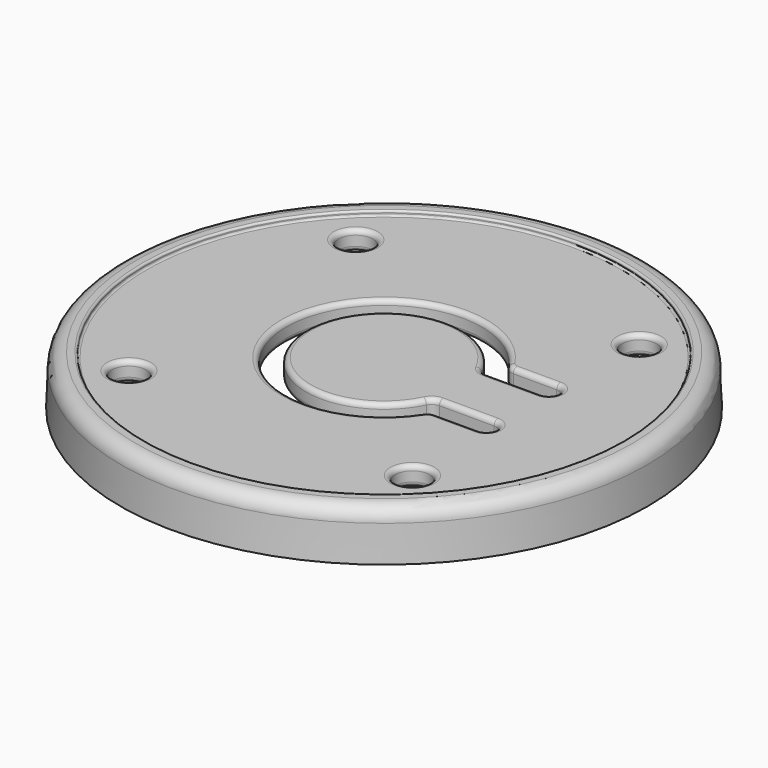
from build123d import *

# Parameters (mm, degrees)
F0_R      = 13.5
F0_R_2    = 12.5
F1_DEPTH  = 2.55
F1_TAPER  = 2
F2_DEPTH  = 1.3
F2_TAPER  = 1
F3_R      = 0.75
F4_R      = 12.25
F5_DEPTH  = 0.25
F6_R      = 0.1
F8_DEPTH  = 2.301
F9_R      = 0.25
F10_R     = 1.5
F11_DEPTH = 1
F11_TAPER = 20
F12_R     = 0.15
F13_R     = 0.875
F14_DEPTH = 2.301
F15_R     = 0.25
F16_R     = 0.48
F17_DEPTH = 1.3


with BuildPart() as f1:
    # F0 (on Top) → F1 (new body)
    with BuildSketch(Plane.XY):
        Circle(F0_R)
        Circle(F0_R_2, mode=Mode.SUBTRACT)
        Circle(F0_R_2)
    extrude(amount=F1_DEPTH, taper=F1_TAPER)

    # F0 (on Top) → F2 (cut)
    with BuildSketch(Plane.XY):
        Circle(F0_R_2)
    extrude(amount=F2_DEPTH, taper=F2_TAPER, mode=Mode.SUBTRACT)

    # F3
    f3_edges = [f1.edges().sort_by_distance(p)[0] for p in [
        (-13.410952, 0, 2.55),
    ]]
    fillet(f3_edges, radius=F3_R)

    # F4 (on face) → F5 (cut)
    with BuildSketch(Plane.XY.offset(2.55)):
        Circle(F4_R)
    extrude(amount=-F5_DEPTH, mode=Mode.SUBTRACT)

    # F6
    f6_edges = [f1.edges().sort_by_distance(p)[0] for p in [
        (-12.25, 0, 2.3),
        (-12.25, 0, 2.55),
    ]]
    fillet(f6_edges, radius=F6_R)

    # F7 (on face) → F8 (cut, through all)
    with BuildSketch(Plane.XY.offset(2.3)):
        with BuildLine():
            ThreePointArc((3.5832256659, -1.7777777778), (-4, 0), (3.5832256659, 1.7777777778))
            ThreePointArc((3.5832256659, 1.7777777778), (3.7676057358, 1.5750817072), (4.0311288741, 1.5))
            Line((4.0311288741, 1.5), (6.8301270189, 1.5))
            ThreePointArc((6.8301270189, 1.5), (7.1836804095, 1.6464466094), (7.3301270189, 2))
            ThreePointArc((7.3301270189, 2), (7.1836804095, 2.3535533906), (6.8301270189, 2.5))
            Line((6.8301270189, 2.5), (4.6097722286, 2.5))
            ThreePointArc((4.6097722286, 2.5), (4.3714065813, 2.5604754635), (4.190702026, 2.7272727273))
            ThreePointArc((4.190702026, 2.7272727273), (-5, 0), (4.190702026, -2.7272727273))
            ThreePointArc((4.190702026, -2.7272727273), (4.3714065813, -2.5604754635), (4.6097722286, -2.5))
            Line((4.6097722286, -2.5), (6.8301270189, -2.5))
            ThreePointArc((6.8301270189, -2.5), (7.1836804095, -2.3535533906), (7.3301270189, -2))
            ThreePointArc((7.3301270189, -2), (7.1836804095, -1.6464466094), (6.8301270189, -1.5))
            Line((6.8301270189, -1.5), (4.0311288741, -1.5))
            ThreePointArc((4.0311288741, -1.5), (3.7676057358, -1.5750817072), (3.5832256659, -1.7777777778))
        make_face()
    extrude(amount=-F8_DEPTH, mode=Mode.SUBTRACT)

    # F9
    f9_edges = [f1.edges().sort_by_distance(p)[0] for p in [
        (-5, 0, 2.3),
        (-5, 0, 1.3),
    ]]
    fillet(f9_edges, radius=F9_R)

    # F10 (on face) → F11 (join)
    with BuildSketch(Plane(origin=(0, 0, 1.3), x_dir=(1, 0, 0), z_dir=(0, 0, -1))):
        Circle(F10_R)
    extrude(amount=F11_DEPTH, taper=F11_TAPER)

    # F12
    f12_edges = [f1.edges().sort_by_distance(p)[0] for p in [
        (-1.13603, 0, 0.3),
        (-1.5, 0, 1.3),
    ]]
    fillet(f12_edges, radius=F12_R)

    # F13 (on face) → F14 (cut, through all)
    with BuildSketch(Plane.XY.offset(2.3)):
        with Locations((-7.25, 7.25)):
            Circle(F13_R)
        with Locations((-7.25, -7.25)):
            Circle(F13_R)
        with Locations((7.25, -7.25)):
            Circle(F13_R)
        with Locations((7.25, 7.25)):
            Circle(F13_R)
    extrude(amount=-F14_DEPTH, mode=Mode.SUBTRACT)

    # F15
    f15_edges = [f1.edges().sort_by_distance(p)[0] for p in [
        (-8.125, 7.25, 2.3),
        (6.375, 7.25, 2.3),
        (6.375, -7.25, 2.3),
        (-8.125, -7.25, 2.3),
        (-8.125, -7.25, 1.3),
        (-8.125, 7.25, 1.3),
        (6.375, 7.25, 1.3),
        (6.375, -7.25, 1.3),
    ]]
    fillet(f15_edges, radius=F15_R)

    # F16 (on face) → F17 (join)
    with BuildSketch(Plane(origin=(0, 0, 1.3), x_dir=(1, 0, 0), z_dir=(0, 0, -1))):
        with BuildLine():
            ThreePointArc((-10.9145811016, 6.0460850701), (-10.3949043654, 6.9013903332), (-9.8083504782, 7.7122944831))
            Line((-9.8083504782, 7.7122944831), (-10.3622839268, 8.0800622675))
            Line((-10.3622839268, 8.0800622675), (-11.4730785469, 6.4168829856))
            Line((-11.4730785469, 6.4168829856), (-10.9145811016, 6.0460850701))
        make_face()
        with BuildLine():
            ThreePointArc((-8.2199697868, 6.1213271543), (-8.3387446987, 6.5940240384), (-8.6668544751, 6.9544318608))
            ThreePointArc((-8.6668544751, 6.9544318608), (-10.0530744933, 6.674442466), (-9.7730850985, 5.2882224478))
            ThreePointArc((-9.7730850985, 5.2882224478), (-8.7472729028, 5.2401020663), (-8.2199697868, 6.1213271543))
        make_face()
        with Locations((-9.2199697868, 6.1213271543)):
            Circle(F16_R, mode=Mode.SUBTRACT)
        with BuildLine():
            Line((-8.6668544751, 6.9544318608), (-9.8083504782, 7.7122944831))
            ThreePointArc((-9.8083504782, 7.7122944831), (-10.3949043654, 6.9013903332), (-10.9145811016, 6.0460850701))
            Line((-10.9145811016, 6.0460850701), (-9.7730850985, 5.2882224478))
            ThreePointArc((-9.7730850985, 5.2882224478), (-10.0530744933, 6.674442466), (-8.6668544751, 6.9544318608))
        make_face()
        with BuildLine():
            ThreePointArc((6.9849920087, 8.9032505659), (7.1054646218, 9.1641625364), (7.1467589752, 9.4485627532))
            ThreePointArc((7.1467589752, 9.4485627532), (6.431159192, 10.4072683997), (5.3085259418, 9.9938749405))
            ThreePointArc((5.3085259418, 9.9938749405), (5.6014467879, 8.6103297197), (6.9849920087, 8.9032505659))
        make_face()
        with Locations((6.1467589752, 9.4485627532)):
            Circle(F16_R, mode=Mode.SUBTRACT)
        with BuildLine():
            ThreePointArc((5.3085259418, 9.9938749405), (6.431159192, 10.4072683997), (7.1467589752, 9.4485627532))
            ThreePointArc((7.1467589752, 9.4485627532), (7.1054646218, 9.1641625364), (6.9849920087, 8.9032505659))
            Line((6.9849920087, 8.9032505659), (7.620374017, 9.8799354825))
            ThreePointArc((7.620374017, 9.8799354825), (6.8040283437, 10.4588920826), (5.9439079501, 10.9705598571))
            Line((5.9439079501, 10.9705598571), (5.3085259418, 9.9938749405))
        make_face()
        with BuildLine():
            Line((6.2319190584, 11.4132795149), (5.9439079501, 10.9705598571))
            ThreePointArc((5.9439079501, 10.9705598571), (6.8040283437, 10.4588920826), (7.620374017, 9.8799354825))
            Line((7.620374017, 9.8799354825), (7.9083851253, 10.3226551403))
            Line((7.9083851253, 10.3226551403), (6.2319190584, 11.4132795149))
        make_face()
        with BuildLine():
            Line((5.316104536, -11.7450435793), (5.1744394927, -11.3537835647))
            ThreePointArc((5.1744394927, -11.3537835647), (4.2478396826, -11.7319684337), (3.2939107692, -12.0346739525))
            Line((3.2939107692, -12.0346739525), (3.4539265375, -12.4766162298))
            Line((3.4539265375, -12.4766162298), (5.316104536, -11.7450435793))
        make_face()
        with BuildLine():
            ThreePointArc((3.2939107692, -12.0346739525), (4.2478396826, -11.7319684337), (5.1744394927, -11.3537835647))
            Line((5.1744394927, -11.3537835647), (4.6742672482, -9.9723743257))
            ThreePointArc((4.6742672482, -9.9723743257), (4.718955769, -10.1399964334), (4.7340028865, -10.3128195196))
            ThreePointArc((4.7340028865, -10.3128195196), (3.9068259727, -11.2977724022), (2.7937385247, -10.6532647135))
            Line((2.7937385247, -10.6532647135), (3.2939107692, -12.0346739525))
        make_face()
        with BuildLine():
            ThreePointArc((4.7340028865, -10.3128195196), (4.718955769, -10.1399964334), (4.6742672482, -9.9723743257))
            ThreePointArc((4.6742672482, -9.9723743257), (4.6448197976, -9.9000089645), (4.6098128136, -9.8301633568))
            Line((4.6098128136, -9.8301633568), (2.85981527, -9.827231205))
            ThreePointArc((2.85981527, -9.827231205), (2.7371870386, -10.2330814143), (2.7937385247, -10.6532647135))
            ThreePointArc((2.7937385247, -10.6532647135), (3.9068259727, -11.2977724022), (4.7340028865, -10.3128195196))
        make_face()
        with Locations((3.7340028865, -10.3128195196)):
            Circle(F16_R, mode=Mode.SUBTRACT)
    extrude(amount=F17_DEPTH)


solid = f1.part
